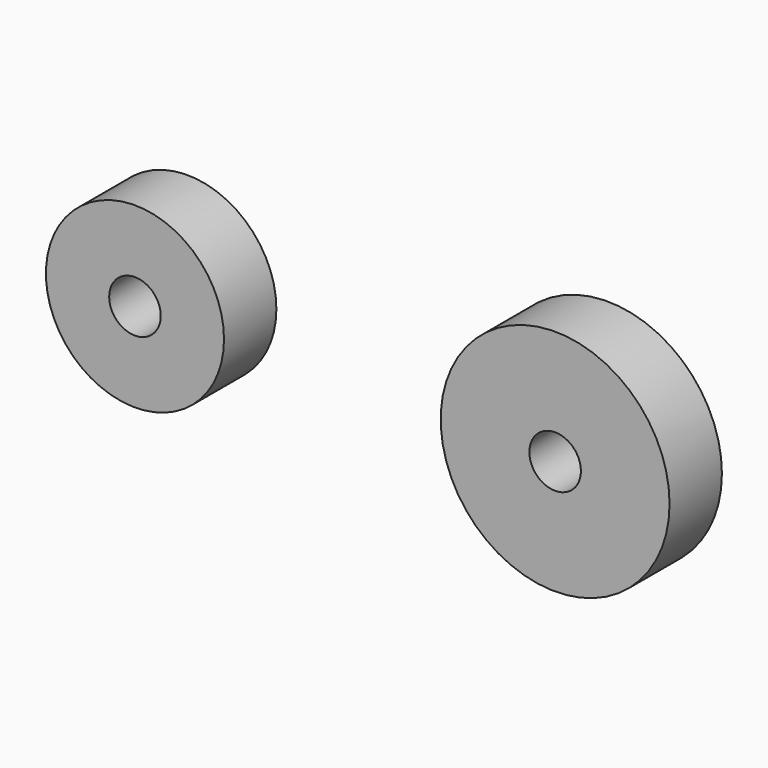
from build123d import *

# Parameters (mm, degrees)
F1_R     = 44.3976733483
F2_DEPTH = 25.4
F3_D     = 20
F4_R     = 34.552404507
F5_DEPTH = 25.4
F6_D     = 20


with BuildPart() as f2:
    # F1 (on face) → F2 (new body)
    with BuildSketch(Plane.XZ):
        Circle(F1_R)
    extrude(amount=F2_DEPTH)

    # F3 (through all)
    with Locations(Plane(origin=(0, 0, 0), x_dir=(1, 0, 0), z_dir=(0, 1, 0))):
        with Locations((0, 0)):
            Hole(F3_D / 2)


with BuildPart() as f5:
    # F4 (on Front) → F5 (new body)
    with BuildSketch(Plane.XZ):
        with Locations((-163.0337238312, 0)):
            Circle(F4_R)
    extrude(amount=F5_DEPTH)

    # F6 (through all)
    with Locations(Plane(origin=(0, 0, 0), x_dir=(1, 0, 0), z_dir=(0, 1, 0))):
        with Locations((-163.0337238312, 0)):
            Hole(F6_D / 2)


solid = Compound([f2.part, f5.part])
